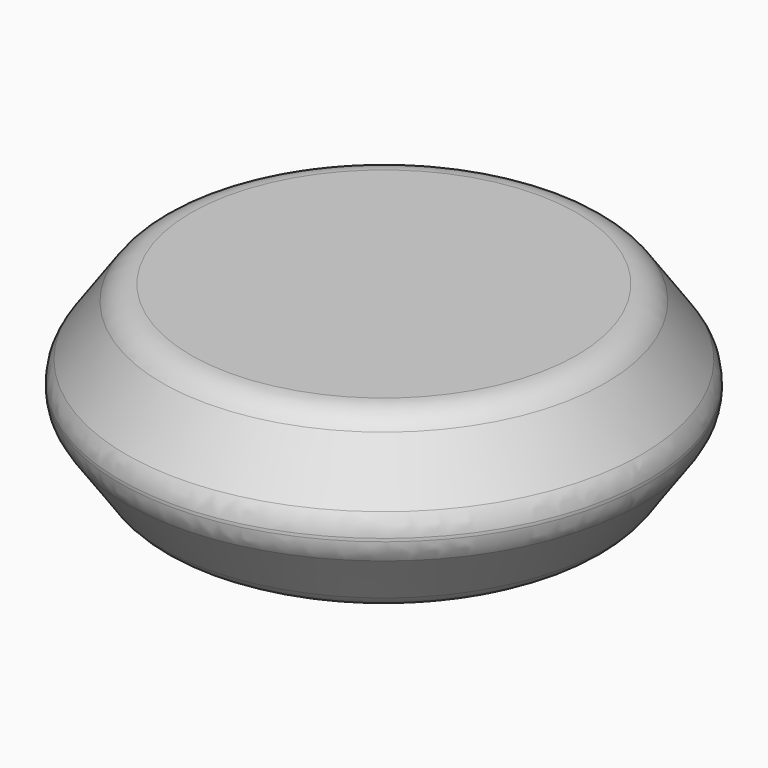
from build123d import *

# Parameters (mm, degrees)
F0_R       = 38.1
F1_DEPTH   = 12.7
F2_SIZE2   = 10.8824878114
F2_SIZE    = 7.62
F2_2_SIZE2 = 10.8824878114
F2_2_SIZE  = 7.62
F3_R       = 5.08


with BuildPart() as f1:
    # F0 (on Top) → F1 (new body, symmetric)
    with BuildSketch(Plane.XY):
        Circle(F0_R)
    extrude(amount=F1_DEPTH, both=True)

    # F2
    f2_edges = [f1.edges().sort_by_distance(p)[0] for p in [
        (-38.1, 0, 12.7),
    ]]
    f2_side = f1.faces().sort_by_distance((0, 0, 12.7))[0]
    chamfer(f2_edges, length=F2_SIZE, length2=F2_SIZE2, reference=f2_side)

    # F2#2
    f2_2_edges = [f1.edges().sort_by_distance(p)[0] for p in [
        (-38.1, 0, -12.7),
    ]]
    f2_2_side = f1.faces().sort_by_distance((0, 0, -12.7))[0]
    chamfer(f2_2_edges, length=F2_2_SIZE, length2=F2_2_SIZE2, reference=f2_2_side)

    # F3
    f3_edges = [f1.edges().sort_by_distance(p)[0] for p in [
        (-38.1, 0, 1.817512),
        (-30.48, 0, 12.7),
        (-38.1, 0, -1.817512),
        (-30.48, 0, -12.7),
    ]]
    fillet(f3_edges, radius=F3_R)


solid = f1.part
